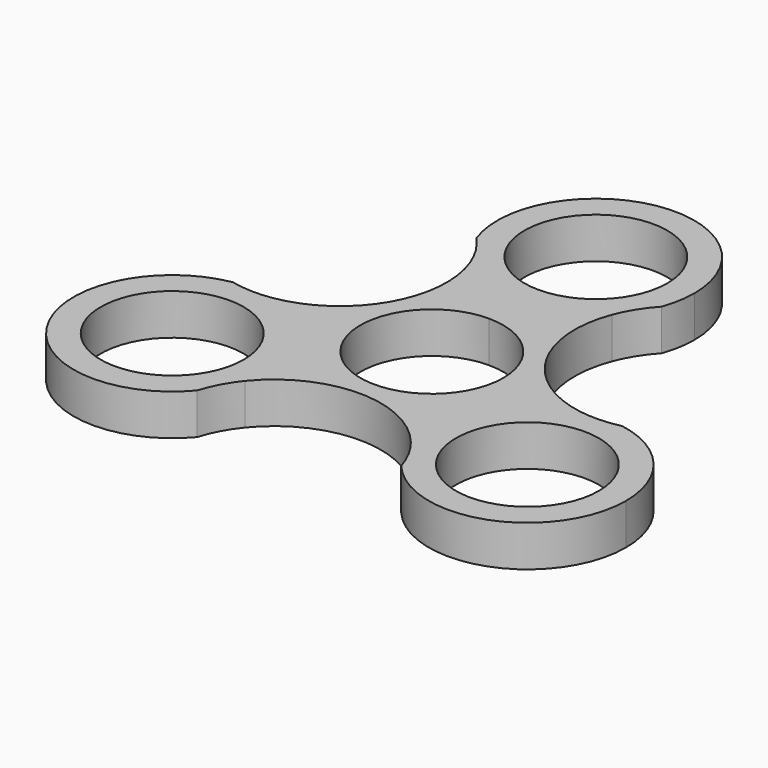
from build123d import *

# Parameters (mm, degrees)
F0_R     = 11.049
F1_DEPTH = 6.35


with BuildPart() as f1:
    # F0 (on Top) → F1 (new body)
    with BuildSketch(Plane.XY):
        with BuildLine():
            ThreePointArc((-10.9733569908, 21.1313639477), (-5.9617806498, 17.6814464347), (0, 16.4669507566))
            ThreePointArc((0, 16.4669507566), (5.9617806498, 17.6814464347), (10.9733569908, 21.1313639477))
            ThreePointArc((10.9733569908, 21.1313639477), (12.3886534366, 23.9785133041), (14.3234646612, 26.5015727589))
            ThreePointArc((14.3234646612, 26.5015727589), (15.0091172531, 29.0642250271), (15.24, 31.7069507566))
            ThreePointArc((15.24, 31.7069507566), (-2.6427257295, 46.7160680097), (-14.3234646612, 26.5015727589))
            ThreePointArc((-14.3234646612, 26.5015727589), (-12.3886534366, 23.9785133041), (-10.9733569908, 21.1313639477))
        make_face()
        with BuildLine():
            ThreePointArc((11.049, 31.7069507566), (7.8128228253, 23.8941279313), (0, 20.6579507566))
            ThreePointArc((0, 20.6579507566), (-7.8128228253, 39.5197735819), (11.049, 31.7069507566))
        make_face(mode=Mode.SUBTRACT)
        with BuildLine():
            ThreePointArc((-9.5687146864, 5.5245), (-5.5245, 9.5687146864), (0, 11.049))
            Line((0, 11.049), (0, 13.97))
            ThreePointArc((0, 13.97), (-6.9849999915, 12.0983748958), (-12.098374881, 6.9850000171))
            Line((-12.0983748909, 6.985), (-9.5687146864, 5.5245))
        make_face()
        with BuildLine():
            ThreePointArc((-12.098374881, 6.9850000171), (-6.9849999915, 12.0983748958), (0, 13.97))
            Line((0, 13.97), (0, 16.4669507566))
            ThreePointArc((0, 16.4669507566), (-5.9617806498, 17.6814464347), (-10.9733569908, 21.1313639477))
            ThreePointArc((-10.9733569908, 21.1313639477), (-9.9384170653, 13.9311416654), (-12.098374881, 6.9850000171))
        make_face()
        with BuildLine():
            Line((0, 16.4669507566), (0, 13.97))
            ThreePointArc((0, 13.97), (6.984999959, 12.0983749145), (12.0983748435, 6.985000082))
            ThreePointArc((12.0983748435, 6.985000082), (9.9384170624, 13.9311417027), (10.9733569908, 21.1313639477))
            ThreePointArc((10.9733569908, 21.1313639477), (5.9617806498, 17.6814464347), (0, 16.4669507566))
        make_face()
        with BuildLine():
            ThreePointArc((0, 11.049), (7.8128228253, 7.8128228253), (11.049, 0))
            ThreePointArc((11.049, 0), (-2.8596916293, -10.6725144547), (-9.5687146864, 5.5245))
            Line((-9.5687146864, 5.5245), (-12.0983748909, 6.985))
            ThreePointArc((-12.098374881, 6.9850000171), (-12.0983749018, -6.9849999811), (-2.4e-08, -13.97))
            ThreePointArc((-2.4e-08, -13.97), (9.8782817247, -9.8782817416), (13.97, 0))
            ThreePointArc((13.97, 0), (13.493983781, 3.6157021058), (12.0983748435, 6.985000082))
            ThreePointArc((12.0983748435, 6.985000082), (6.984999959, 12.0983749145), (0, 13.97))
            Line((0, 13.97), (0, 11.049))
        make_face()
        with BuildLine():
            ThreePointArc((30.1127675801, -0.8463021126), (26.9603283847, -1.2603680573), (23.7869764907, -1.062476055))
            ThreePointArc((23.7869764907, -1.062476055), (14.2607976781, -8.2334753783), (12.8136194999, -20.0688878927))
            ThreePointArc((12.8136194999, -20.0688878927), (14.571674948, -22.7181452469), (15.7893029189, -25.6552706463))
            ThreePointArc((15.7893029189, -25.6552706463), (32.6749158413, -30.1731150726), (42.6990248317, -15.8534753783))
            ThreePointArc((42.6990248317, -15.8534753783), (39.1359387966, -6.0602491347), (30.1127675801, -0.8463021126))
        make_face()
        with Locations((27.4590248317, -15.8534753783)):
            Circle(F0_R, mode=Mode.SUBTRACT)
        with BuildLine():
            ThreePointArc((23.7869764907, -1.062476055), (17.0339310715, 1.6413508517), (12.0983748435, 6.985000082))
            ThreePointArc((12.0983748435, 6.985000082), (13.493983781, 3.6157021058), (13.97, 0))
            ThreePointArc((13.97, 0), (9.8782817247, -9.8782817416), (-2.4e-08, -13.97))
            ThreePointArc((-2.4e-08, -13.97), (7.0955140336, -15.5724924753), (12.8136194999, -20.0688878927))
            ThreePointArc((12.8136194999, -20.0688878927), (14.2607976781, -8.2334753783), (23.7869764907, -1.062476055))
        make_face()
        with BuildLine():
            ThreePointArc((-2.4e-08, -13.97), (-12.0983749018, -6.9849999811), (-12.098374881, 6.9850000171))
            ThreePointArc((-12.098374881, 6.9850000171), (-17.0339311024, 1.6413508305), (-23.7869764907, -1.062476055))
            ThreePointArc((-23.7869764907, -1.062476055), (-15.4544503554, -6.4647698423), (-12.2190248317, -15.8534753783))
            ThreePointArc((-12.2190248317, -15.8534753783), (-12.3684056056, -17.9820456429), (-12.8136194999, -20.0688878927))
            ThreePointArc((-12.8136194999, -20.0688878927), (-7.0955140552, -15.5724924856), (-2.4e-08, -13.97))
        make_face()
        with BuildLine():
            ThreePointArc((-12.2190248317, -15.8534753783), (-15.4544503554, -6.4647698423), (-23.7869764907, -1.062476055))
            ThreePointArc((-23.7869764907, -1.062476055), (-26.9603283847, -1.2603680573), (-30.1127675801, -0.8463021126))
            ThreePointArc((-30.1127675801, -0.8463021126), (-40.6572519854, -23.4734753783), (-15.7893029189, -25.6552706463))
            ThreePointArc((-15.7893029189, -25.6552706463), (-14.571674948, -22.7181452469), (-12.8136194999, -20.0688878927))
            ThreePointArc((-12.8136194999, -20.0688878927), (-12.3684056056, -17.9820456429), (-12.2190248317, -15.8534753783))
        make_face()
        with Locations((-27.4590248317, -15.8534753783)):
            Circle(F0_R, mode=Mode.SUBTRACT)
    extrude(amount=F1_DEPTH)


solid = f1.part
